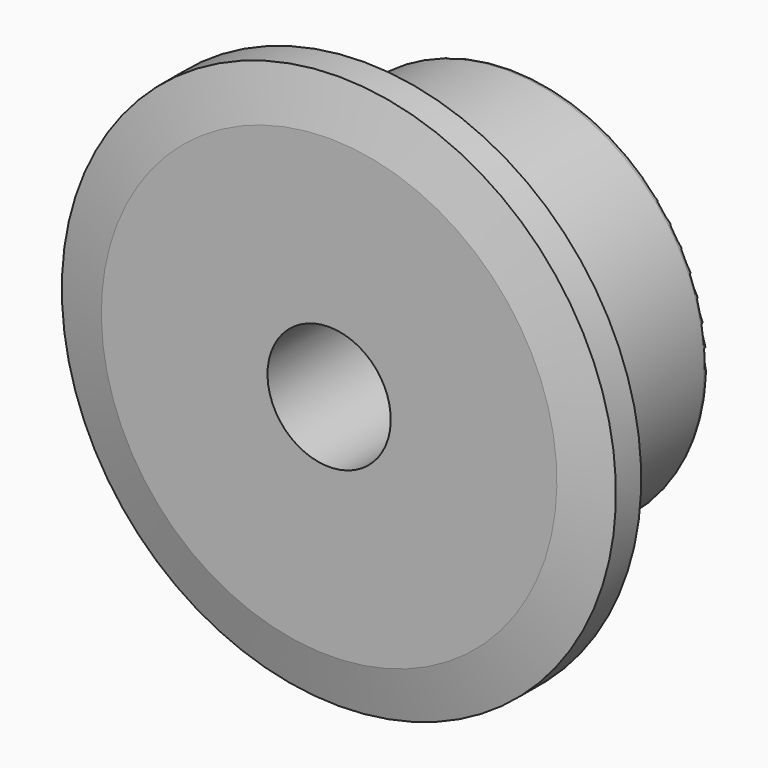
from build123d import *

# Parameters (mm, degrees)
F0_W     = 7.2136
F0_H     = 10.287
F0_H_2   = 17.2237775958
F2_R     = 1.5875
F3_R     = 0.79375
F4_SIZE2 = 6.35
F4_SIZE  = 1.5748


with BuildPart() as f1:
    # F0 (on Right) → F1 (revolve)
    with BuildSketch(Plane.YZ):
        with Locations((3.6068, 30.5435)):
            Rectangle(F0_W, F0_H)
        with Locations((3.6068, 16.7881112021)):
            Rectangle(F0_W, F0_H_2)
        Polygon((7.2136, 8.1762224042), (0, 8.1762224042), (0, 7.9375), (29.4386, 7.9375), (29.4386, 25.4), (7.2136, 25.4), align=None)
    revolve(axis=Axis((0, 15.9048408099, 0), (0, 1, 0)))

    # F2
    f2_edges = [f1.edges().sort_by_distance(p)[0] for p in [
        (0, 7.2136, -25.4),
    ]]
    fillet(f2_edges, radius=F2_R)

    # F3
    f3_edges = [f1.edges().sort_by_distance(p)[0] for p in [
        (0, 29.4386, -25.4),
    ]]
    fillet(f3_edges, radius=F3_R)

    # F4
    f4_edges = [f1.edges().sort_by_distance(p)[0] for p in [
        (0, 0, -35.687),
        (0, 7.2136, -35.687),
    ]]
    f4_side = f1.faces().sort_by_distance((0, 3.6068, -35.687))[0]
    chamfer(f4_edges, length=F4_SIZE, length2=F4_SIZE2, reference=f4_side)


solid = f1.part
